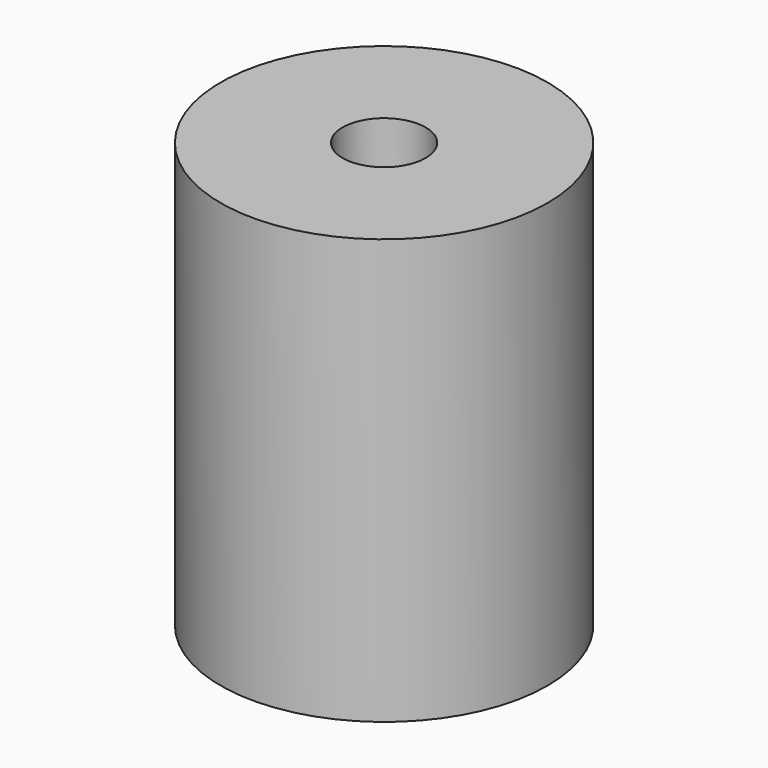
from build123d import *

# Parameters (mm, degrees)
CYLINDER_R      = 12.5
CYLINDER_DEPTH  = 32.5
SKETCH_R        = 3.175
POCKET_DEPTH    = 10
SKETCH001_R     = 4
POCKET001_DEPTH = 23


with BuildPart() as part:
    # Cylinder → Cylinder (new body)
    with BuildSketch(Plane.XY):
        Circle(CYLINDER_R)
    extrude(amount=CYLINDER_DEPTH)

    # Sketch → Pocket (cut)
    with BuildSketch(Plane.XY.offset(32.5)):
        Circle(SKETCH_R)
    extrude(amount=-POCKET_DEPTH, mode=Mode.SUBTRACT)

    # Sketch001 → Pocket001 (cut)
    with BuildSketch(Plane(origin=(0, 0, 0), x_dir=(1, 0, 0), z_dir=(0, 0, -1))):
        Circle(SKETCH001_R)
    extrude(amount=-POCKET001_DEPTH, mode=Mode.SUBTRACT)


solid = part.part
